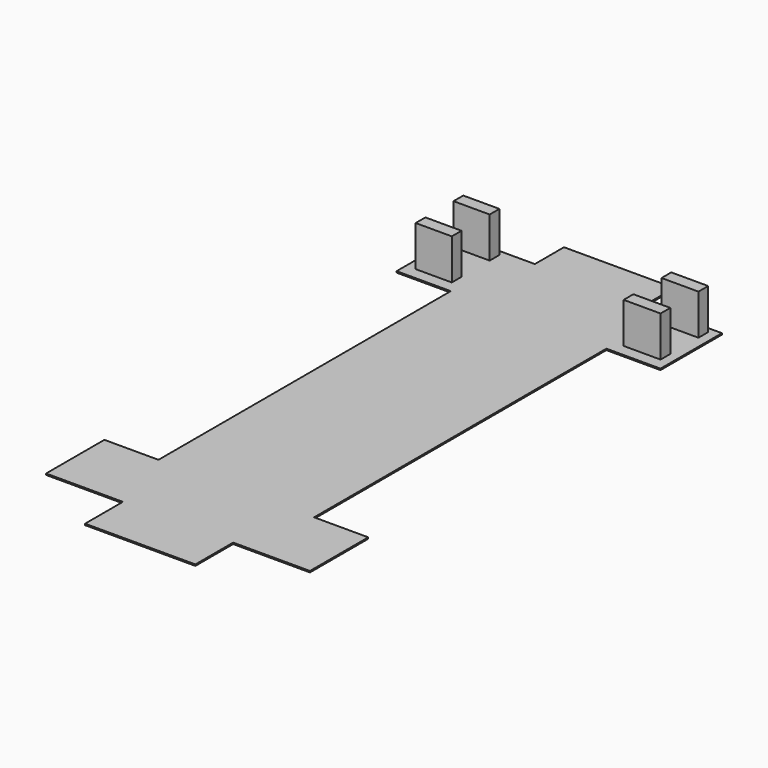
from build123d import *

# Parameters (mm, degrees)
F1_DEPTH = 0.254
F2_W     = 6.786758
F2_H     = 2.286
F2_W_2   = 6.9342
F3_DEPTH = 7.62


with BuildPart() as f1:
    # F0 (on Top) → F1 (new body)
    with BuildSketch(Plane.XY):
        Polygon((-10.351698, -56.194937), (10.351697, -56.194937), (10.351697, -47.322049), (24.770136, -47.322049), (24.770136, -33.643018), (14.610136, -33.643018), (14.610136, 34.936982), (24.770136, 34.936982), (24.770136, 49.355418), (10.351697, 49.355418), (10.351697, 56.194937), (-10.351698, 56.194937), (-10.351698, 49.355418), (-24.770136, 49.355418), (-24.770136, 34.936982), (-14.610136, 34.936982), (-14.610136, -33.643018), (-24.770136, -33.643018), (-24.770136, -47.322049), (-10.351698, -47.322049), align=None)
    extrude(amount=-F1_DEPTH)

    # F2 (on face) → F3 (join)
    with BuildSketch(Plane.XY):
        with Locations((-19.598757, 47.214477)):
            Rectangle(F2_W, F2_H)
        with Locations((-19.598757, 38.324477)):
            Rectangle(F2_W, F2_H)
        with Locations((19.525036, 38.324478)):
            Rectangle(F2_W_2, F2_H)
        with Locations((19.525036, 47.214478)):
            Rectangle(F2_W_2, F2_H)
    extrude(amount=F3_DEPTH)


solid = f1.part
